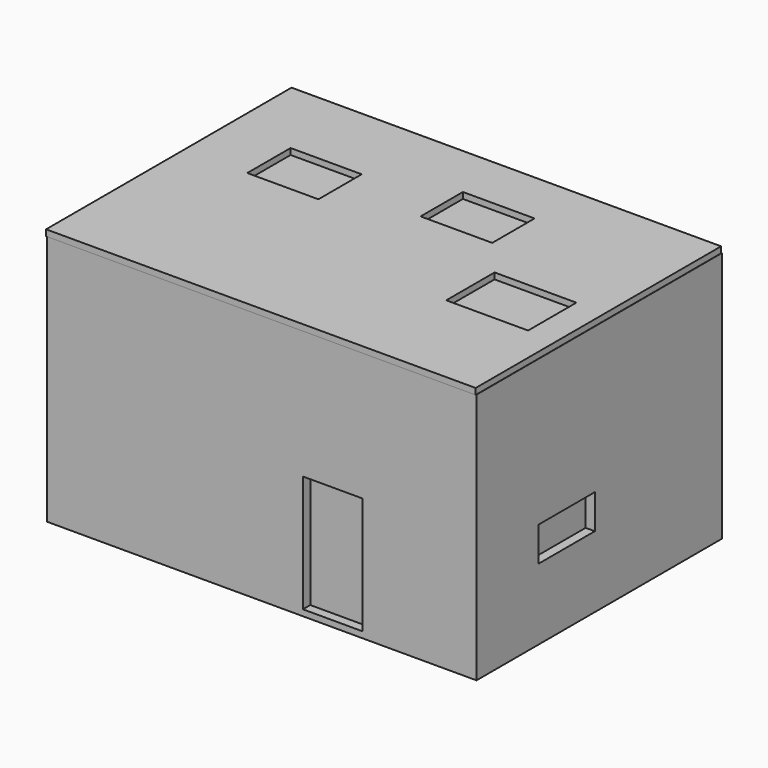
from build123d import *

# Parameters (mm, degrees)
F0_W      = 7000
F0_H      = 5000
F1_DEPTH  = 4100
F3_W      = 7001.7721652985
F3_H      = 5001.2657642365
F4_DEPTH  = 100
F5_W      = 1159.2469215393
F5_H      = 882.5842142105
F5_W_2    = 1168.2131290436
F5_H_2    = 862.3332977295
F5_W_3    = 1333.6598873138
F5_H_3    = 983.7473630905
F6_DEPTH  = 150
F7_W      = 1143.9567655325
F7_H      = 561.0218048096
F8_DEPTH  = 150
F9_W      = 1378.2457113266
F9_H      = 501.2377500534
F9_W_2    = 1474.2147922516
F9_H_2    = 581.7452669144
F10_DEPTH = 150
F11_W     = 974.6417999268
F11_H     = 1905.9120416641
F12_DEPTH = 150


with BuildPart() as f1:
    # F0 (on Top) → F1 (new body)
    with BuildSketch(Plane.XY):
        with Locations((5.3243301809, 286.2890493809)):
            Rectangle(F0_W, F0_H)
    extrude(amount=F1_DEPTH)

    # F3 (on 3pt) → F4 (join)
    with BuildSketch(Plane.XY.offset(4100)):
        with Locations((0.7160902023, 273.8202810287)):
            Rectangle(F3_W, F3_H)
    extrude(amount=F4_DEPTH)

    # F5 (on 3pt) → F6 (cut)
    with BuildSketch(Plane.XY.offset(4100)):
        with Locations((-1889.9548053741, 1025.607407093)):
            Rectangle(F5_W, F5_H)
        with Locations((584.1065645218, 1459.6139192581)):
            Rectangle(F5_W_2, F5_H_2)
        with Locations((2366.5949106216, -81.4886689186)):
            Rectangle(F5_W_3, F5_H_3)
    extrude(amount=F6_DEPTH, mode=Mode.SUBTRACT)

    # F7 (on face) → F8 (cut)
    with BuildSketch(Plane.YZ.offset(3505.3243301809)):
        with Locations((-375.899143517, 1441.0707950592)):
            Rectangle(F7_W, F7_H)
    extrude(amount=-F8_DEPTH, mode=Mode.SUBTRACT)

    # F9 (on face) → F10 (cut)
    with BuildSketch(Plane(origin=(0, 2786.2890493809, 0), x_dir=(-1, 0, 0), z_dir=(0, 1, 0))):
        with Locations((-1673.8589406013, 1384.5381140709)):
            Rectangle(F9_W, F9_H)
        with Locations((1347.2708463669, 1306.2437176704)):
            Rectangle(F9_W_2, F9_H_2)
    extrude(amount=-F10_DEPTH, mode=Mode.SUBTRACT)

    # F11 (on face) → F12 (cut)
    with BuildSketch(Plane.XZ.offset(2213.7109506191)):
        with Locations((1163.1864309311, 1052.9560208321)):
            Rectangle(F11_W, F11_H)
    extrude(amount=-F12_DEPTH, mode=Mode.SUBTRACT)


solid = f1.part
